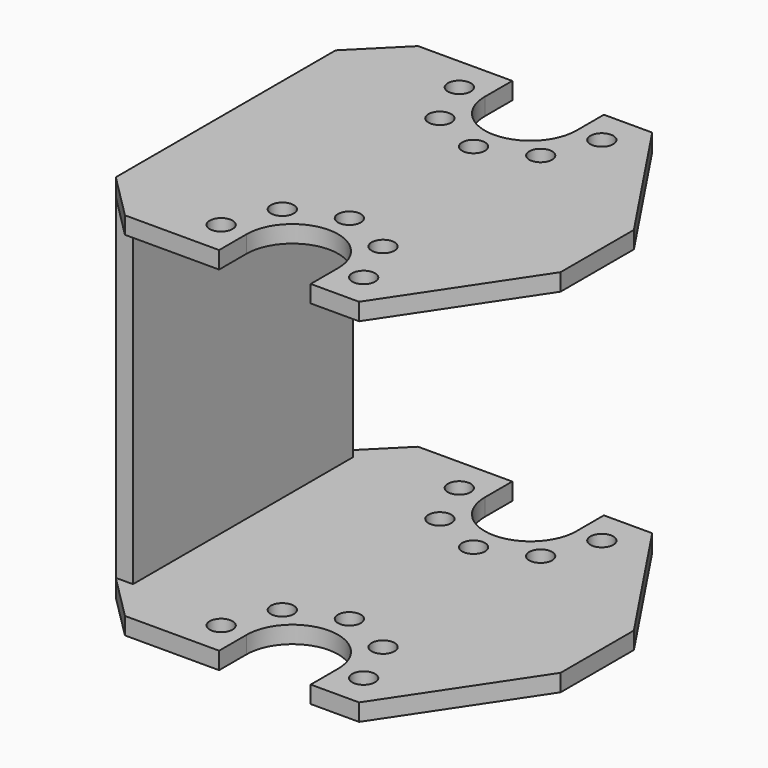
from build123d import *

# Parameters (mm, degrees)
F0_R     = 1
F1_DEPTH = 1.5
F3_DEPTH = 1.5
F4_W     = 1.5
F4_H     = 24
F5_DEPTH = 14.65


with BuildPart() as f1:
    # F0 (on Top) → F1 (new body)
    with BuildSketch(Plane.XY):
        with BuildLine():
            Line((-4, 16), (-16.22254, 16))
            Line((-16.22254, 16), (-16.22254, -16))
            Line((-16.22254, -16), (-4, -16))
            Line((-4, -16), (-4, -13))
            ThreePointArc((-4, -13), (0, -9), (4, -13))
            Line((4, -13), (4, -16))
            Line((4, -16), (16.22254, -16))
            Line((16.22254, -16), (16.22254, 16))
            Line((16.22254, 16), (4, 16))
            Line((4, 16), (4, 13))
            ThreePointArc((4, 13), (0, 9), (-4, 13))
            Line((-4, 13), (-4, 16))
        make_face()
        with Locations((-6.22254, -13)):
            Circle(F0_R, mode=Mode.SUBTRACT)
        with Locations((-4.4, -8.6)):
            Circle(F0_R, mode=Mode.SUBTRACT)
        with Locations((6.22254, -13)):
            Circle(F0_R, mode=Mode.SUBTRACT)
        with Locations((4.4, -8.6)):
            Circle(F0_R, mode=Mode.SUBTRACT)
        with Locations((0, -6.77746)):
            Circle(F0_R, mode=Mode.SUBTRACT)
        with Locations((-4.4, 8.6)):
            Circle(F0_R, mode=Mode.SUBTRACT)
        with Locations((-6.22254, 13)):
            Circle(F0_R, mode=Mode.SUBTRACT)
        with Locations((0, 6.77746)):
            Circle(F0_R, mode=Mode.SUBTRACT)
        with Locations((4.4, 8.6)):
            Circle(F0_R, mode=Mode.SUBTRACT)
        with Locations((6.22254, 13)):
            Circle(F0_R, mode=Mode.SUBTRACT)
    extrude(amount=F1_DEPTH)

    # F2 (on face) → F3 (cut, through all)
    with BuildSketch(Plane.XY.offset(1.5)):
        Polygon((16.22254, 16), (8.22254, 16), (16.22254, 4), align=None)
        Polygon((8.22254, -16), (16.22254, -16), (16.22254, -4), align=None)
        Polygon((-12.22254, 16), (-16.22254, 16), (-16.22254, 12), align=None)
        Polygon((-16.22254, -16), (-12.22254, -16), (-16.22254, -12), align=None)
    extrude(amount=-F3_DEPTH, mode=Mode.SUBTRACT)

    # F4 (on face) → F5 (join)
    with BuildSketch(Plane(origin=(0, 0, 0), x_dir=(1, 0, 0), z_dir=(0, 0, -1))):
        with Locations((-15.47254, 0)):
            Rectangle(F4_W, F4_H)
    extrude(amount=F5_DEPTH)

    # F7: F1 across plane


with BuildPart() as f1_1:
    add(f1.part)
    add(f1.part.mirror(Plane.XY.offset(-14.65)))


solid = f1_1.part
